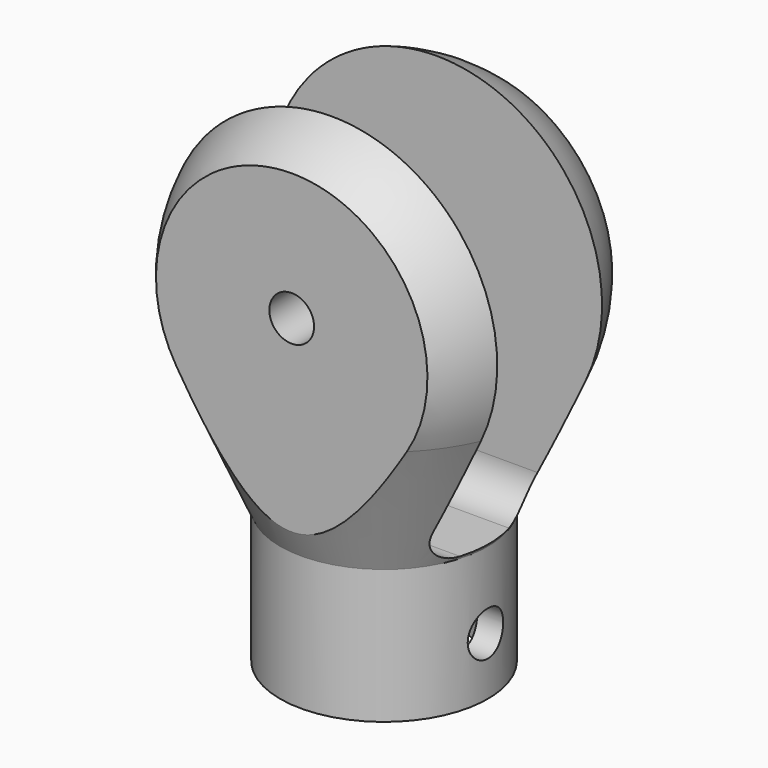
from build123d import *

# Parameters (mm, degrees)
F2_W           = 73.3678117394
F2_H           = 19.5953426883
F3_DEPTH       = 47.4
F5_DEPTH       = 37.1
F6_R           = 11.2774131236
F7_DEPTH       = 16.7
F8_R           = 3.2
F9_DEPTH       = 36.8
F10_R          = 3.2661219018
F11_DEPTH      = 25
F12_R          = 3.175
F13_DEPTH      = 25
F13_DEPTH_BACK = 25


with BuildPart() as f1:
    # F0 (on Front) → F1 (revolve)
    with BuildSketch(Plane.XZ):
        with BuildLine():
            ThreePointArc((-23.3421701398, 7.9997662245), (-19.8064798686, 2.2157757205), (-14.8723184541, -2.4328480523))
            Line((-14.8723184541, -2.4328480523), (-14.8723184541, 8.0005478124))
            Line((-14.8723184541, 8.0005478124), (0, 8.0005478124))
            Line((0, 8.0005478124), (0, 43.8080292363))
            ThreePointArc((0, 43.8080292363), (-21.3722285148, 32.2277381458), (-23.3421701398, 7.9997662245))
        make_face()
        with BuildLine():
            ThreePointArc((-14.8723184541, -2.4328480523), (-7.8113091337, -5.9909309274), (0, -7.2161884465))
            Line((0, -7.2161884465), (0, 8.0005478124))
            Line((0, 8.0005478124), (-14.8723184541, 8.0005478124))
            Line((-14.8723184541, 8.0005478124), (-14.8723184541, -2.4328480523))
        make_face()
        with BuildLine():
            Line((-14.8723184541, -11.2020362965), (-14.8723184541, -30.4046204054))
            Line((-14.8723184541, -30.4046204054), (0, -30.4046204054))
            Line((0, -30.4046204054), (0, -7.2161884465))
            ThreePointArc((0, -7.2161884465), (-7.8113091337, -5.9909309274), (-14.8723184541, -2.4328480523))
            Line((-14.8723184541, -2.4328480523), (-14.8723184541, -11.2020362965))
        make_face()
        with BuildLine():
            Line((-23.3421701398, 7.9997662245), (-14.8723184541, -11.2020362965))
            Line((-14.8723184541, -11.2020362965), (-14.8723184541, -2.4328480523))
            ThreePointArc((-14.8723184541, -2.4328480523), (-19.8064798686, 2.2157757205), (-23.3421701398, 7.9997662245))
        make_face()
    revolve(axis=Axis((0, 0, 4.5623818878), (0, 0, -1)))

    # F2 (on Top) → F3 (cut, symmetric)
    with BuildSketch(Plane.XY):
        with Locations((-2.2661872208, 26.3196849264)):
            Rectangle(F2_W, F2_H)
        with Locations((-2.2661872208, -26.3196849264)):
            Rectangle(F2_W, F2_H)
    extrude(amount=F3_DEPTH, both=True, mode=Mode.SUBTRACT)

    # F4 (on Right) → F5 (cut, symmetric)
    with BuildSketch(Plane.YZ):
        with BuildLine():
            Line((9.3827452511, -5.8119617216), (9.3827452511, 45.4891547561))
            Line((9.3827452511, 45.4891547561), (0, 45.4891547561))
            Line((0, 45.4891547561), (0, -10.8119617216))
            Line((0, -10.8119617216), (4.3827452511, -10.8119617216))
            ThreePointArc((4.3827452511, -10.8119617216), (7.918279157, -9.3474956276), (9.3827452511, -5.8119617216))
        make_face()
        with BuildLine():
            Line((0, -10.8119617216), (0, 45.4891547561))
            Line((0, 45.4891547561), (-9.3827452511, 45.4891547561))
            Line((-9.3827452511, 45.4891547561), (-9.3827452511, -5.8119617216))
            ThreePointArc((-9.3827452511, -5.8119617216), (-7.918279157, -9.3474956276), (-4.3827452511, -10.8119617216))
            Line((-4.3827452511, -10.8119617216), (0, -10.8119617216))
        make_face()
    extrude(amount=F5_DEPTH, both=True, mode=Mode.SUBTRACT)

    # F6 (on face) → F7 (cut)
    with BuildSketch(Plane(origin=(0, 0, -30.4046204054), x_dir=(1, 0, 0), z_dir=(0, 0, -1))):
        Circle(F6_R)
    extrude(amount=-F7_DEPTH, mode=Mode.SUBTRACT)

    # F8 (on face) + F3_face1 (on face) → F9 (cut)
    with BuildSketch(Plane.XZ.offset(16.5220135823)):
        with Locations((0, 19.4492916284)):
            Circle(F8_R)
    with BuildSketch(Plane(origin=(0, 16.5220135823, 16.4645974536), x_dir=(-1, 0, 0), z_dir=(0, 1, 0))):
        with BuildLine():
            add(Edge.make_bspline(
                [(-16.488783279, -8.4648312291), (0, -34.870804714), (16.488783279, -8.4648312291)],
                knots=[-0.8799506859, -0.8799506859, -0.8799506859, 0.8799506859, 0.8799506859, 0.8799506859], degree=2, weights=[1, 1.4127920924, 1]))
            ThreePointArc((16.488783279, -8.4648312291), (0, 21.2707356053), (-16.488783279, -8.4648312291))
        make_face()
    extrude(amount=-F9_DEPTH, dir=(0, -1, 0), mode=Mode.SUBTRACT)

    # F10 (on face) → F11 (cut)
    with BuildSketch(Plane(origin=(0, 0, -13.7046204054), x_dir=(1, 0, 0), z_dir=(0, 0, -1))):
        Circle(F10_R)
    extrude(amount=-F11_DEPTH, mode=Mode.SUBTRACT)

    # F12 (on Right) → F13 (cut, two sides)
    with BuildSketch(Plane.YZ) as f13_sk:
        with Locations((0, -22.1496204054)):
            Circle(F12_R)
    extrude(amount=-F13_DEPTH, mode=Mode.SUBTRACT)
    extrude(f13_sk.sketch, amount=F13_DEPTH_BACK, mode=Mode.SUBTRACT)


solid = f1.part
